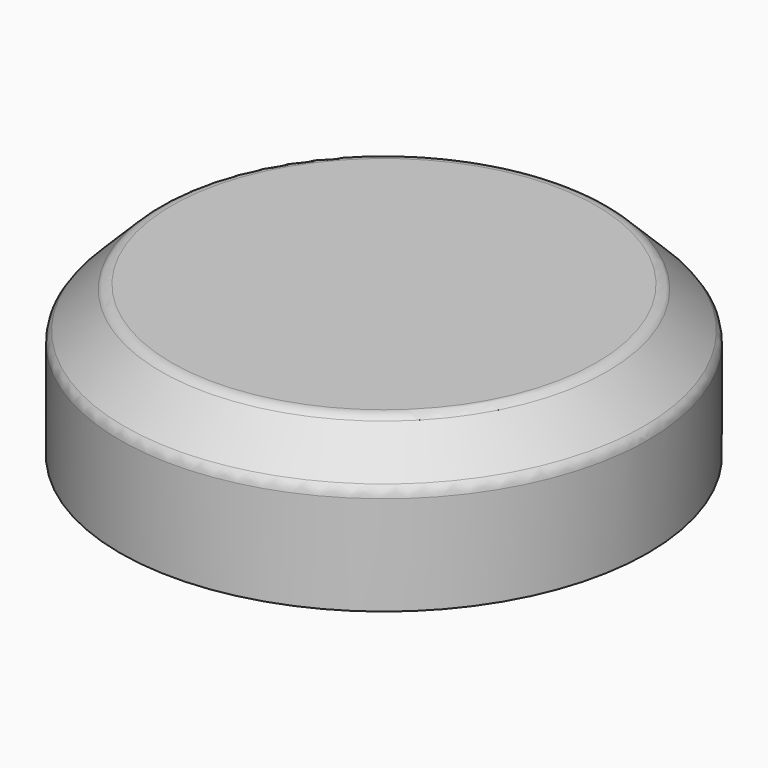
from build123d import *

# Parameters (mm, degrees)
F0_R     = 17.5
F1_DEPTH = 10
F2_SIZE  = 3
F3_R     = 1
F4_T     = -2


with BuildPart() as f1:
    # F0 (on Top) → F1 (new body)
    with BuildSketch(Plane.XY):
        Circle(F0_R)
    extrude(amount=F1_DEPTH)

    # F2
    f2_edges = [f1.edges().sort_by_distance(p)[0] for p in [
        (-17.5, 0, 10),
    ]]
    chamfer(f2_edges, length=F2_SIZE)

    # F3
    f3_edges = [f1.edges().sort_by_distance(p)[0] for p in [
        (16, 0, 8.5),
        (-17.5, 0, 7),
        (-14.5, 0, 10),
    ]]
    fillet(f3_edges, radius=F3_R)

    # F4
    f4_openings = [f1.faces().sort_by_distance(p)[0] for p in [
        (0, 0, 0),
    ]]
    offset(amount=F4_T, openings=f4_openings)


solid = f1.part
